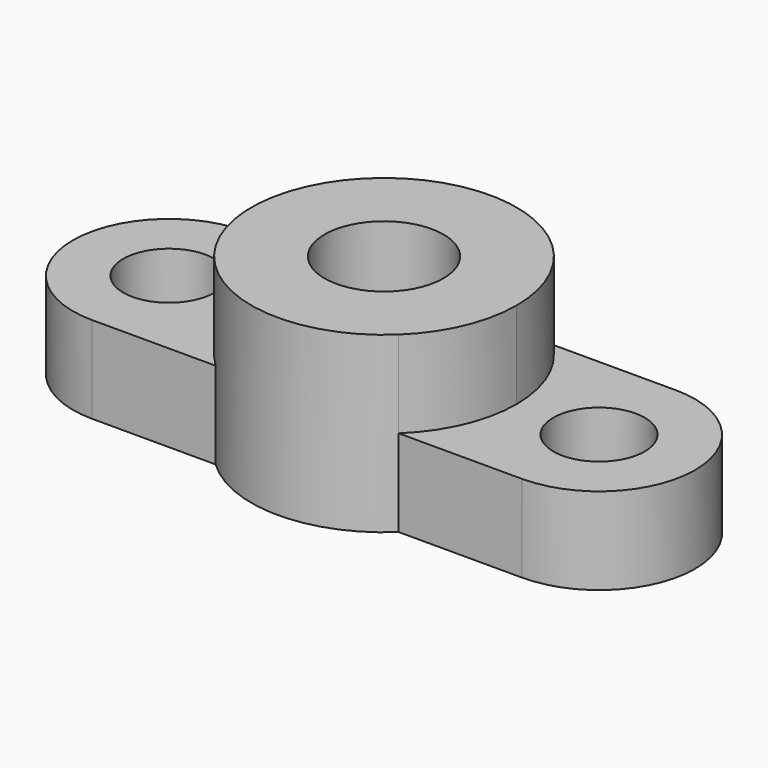
from build123d import *

# Parameters (mm, degrees)
F0_R     = 13
F1_DEPTH = 38
F0_R_2   = 10
F2_DEPTH = 19


with BuildPart() as f1:
    # F0 (on Top) → F1 (new body)
    with BuildSketch(Plane.XY):
        with BuildLine():
            ThreePointArc((20, -21), (26.655206, -11.42366), (29, 0))
            ThreePointArc((29, 0), (26.655206, 11.42366), (20, 21))
            ThreePointArc((20, 21), (0, 29), (-20, 21))
            ThreePointArc((-20, 21), (-29, 0), (-20, -21))
            ThreePointArc((-20, -21), (0, -29), (20, -21))
        make_face()
        Circle(F0_R, mode=Mode.SUBTRACT)
    extrude(amount=F1_DEPTH)

    # F0 (on Top) → F2 (join)
    with BuildSketch(Plane.XY):
        with BuildLine():
            ThreePointArc((20, -21), (26.655206, -11.42366), (29, 0))
            ThreePointArc((29, 0), (26.655206, 11.42366), (20, 21))
            ThreePointArc((20, 21), (0, 29), (-20, 21))
            ThreePointArc((-20, 21), (-29, 0), (-20, -21))
            ThreePointArc((-20, -21), (0, -29), (20, -21))
        make_face()
        Circle(F0_R, mode=Mode.SUBTRACT)
        with BuildLine():
            ThreePointArc((20, 21), (26.655206, 11.42366), (29, 0))
            ThreePointArc((29, 0), (26.655206, -11.42366), (20, -21))
            Line((20, -21), (47, -21))
            ThreePointArc((47, -21), (68, 0), (47, 21))
            Line((47, 21), (20, 21))
        make_face()
        with Locations((47, 0)):
            Circle(F0_R_2, mode=Mode.SUBTRACT)
        with BuildLine():
            ThreePointArc((-20, -21), (-29, 0), (-20, 21))
            Line((-20, 21), (-47, 21))
            ThreePointArc((-47, 21), (-68, 0), (-47, -21))
            Line((-47, -21), (-20, -21))
        make_face()
        with Locations((-47, 0)):
            Circle(F0_R_2, mode=Mode.SUBTRACT)
    extrude(amount=F2_DEPTH)


solid = f1.part
